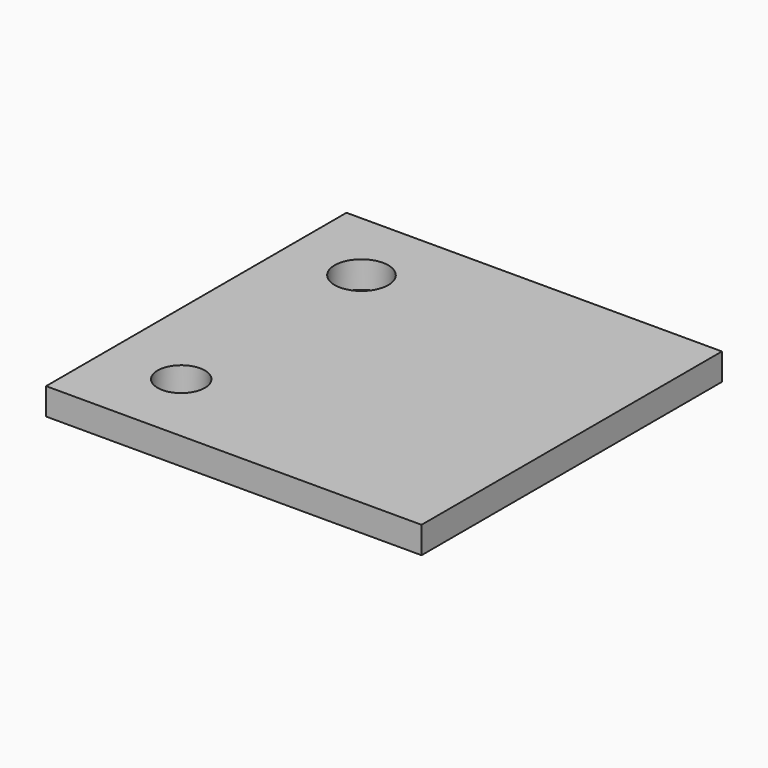
from build123d import *

# Parameters (mm, degrees)
F0_W     = 88.9
F0_H     = 88.9
F0_R     = 5.588
F0_R_2   = 6.35
F1_DEPTH = 6.35


with BuildPart() as f1:
    # F0 (on Top) → F1 (new body)
    with BuildSketch(Plane.XY):
        Rectangle(F0_W, F0_H)
        with Locations((-26.67, -26.67)):
            Circle(F0_R, mode=Mode.SUBTRACT)
        with Locations((-26.67, 26.67)):
            Circle(F0_R_2, mode=Mode.SUBTRACT)
    extrude(amount=F1_DEPTH)


solid = f1.part
